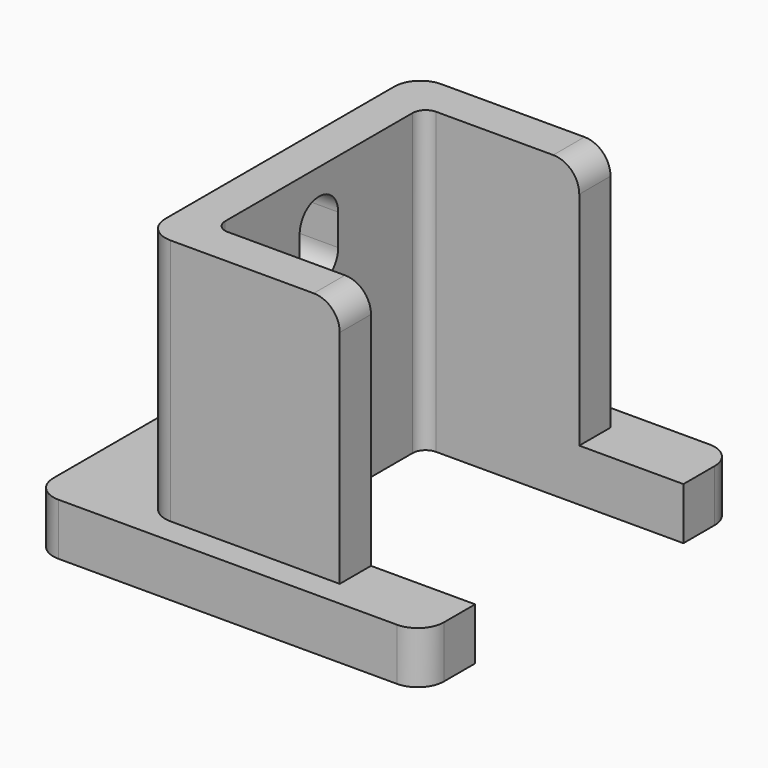
from build123d import *

# Parameters (mm, degrees)
BOX003_W     = 50
BOX003_H     = 3.7
BOX003_DEPTH = 6
FILLET003_R  = 1.8
BOX_W        = 50
BOX_H        = 20
BOX_DEPTH    = 50
FILLET_R     = 1
BOX002_W     = 30
BOX002_H     = 30
BOX002_DEPTH = 4
FILLET002_R  = 2
BOX001_W     = 15
BOX001_H     = 26
BOX001_DEPTH = 23
FILLET001_R  = 2


with BuildPart() as fillet003:
    # Box003 → Box003 (new body)
    with BuildSketch(Plane(origin=(-20, -1.85, 15), x_dir=(1, 0, 0), z_dir=(0, 0, 1))):
        with Locations((25, 1.85)):
            Rectangle(BOX003_W, BOX003_H)
    extrude(amount=BOX003_DEPTH)

    # Fillet003
    fillet003_edges = [fillet003.edges().sort_by_distance(p)[0] for p in [
        (5, -1.85, 15),
        (5, -1.85, 21),
        (5, 1.85, 15),
        (5, 1.85, 21),
    ]]
    fillet(fillet003_edges, radius=FILLET003_R)


with BuildPart() as fusion001:
    # Box → Box (new body)
    with BuildSketch(Plane(origin=(0, -10, 0), x_dir=(1, 0, 0), z_dir=(0, 0, 1))):
        with Locations((25, 10)):
            Rectangle(BOX_W, BOX_H)
    extrude(amount=BOX_DEPTH)

    # Fillet
    fillet_edges = [fusion001.edges().sort_by_distance(p)[0] for p in [
        (0, -10, 25),
        (0, 10, 25),
    ]]
    fillet(fillet_edges, radius=FILLET_R)

    # Fusion001: union Fillet003
    add(fillet003.part)


with BuildPart() as fillet002:
    # Box002 → Box002 (new body)
    with BuildSketch(Plane(origin=(-10, -15, 0), x_dir=(1, 0, 0), z_dir=(0, 0, 1))):
        with Locations((15, 15)):
            Rectangle(BOX002_W, BOX002_H)
    extrude(amount=BOX002_DEPTH)

    # Fillet002
    fillet002_edges = [fillet002.edges().sort_by_distance(p)[0] for p in [
        (-10, -15, 2),
        (-10, 15, 2),
        (20, -15, 2),
        (20, 15, 2),
    ]]
    fillet(fillet002_edges, radius=FILLET002_R)


with BuildPart() as flood_sensor:
    # Box001 → Box001 (new body)
    with BuildSketch(Plane(origin=(-3, -13, 0), x_dir=(1, 0, 0), z_dir=(0, 0, 1))):
        with Locations((7.5, 13)):
            Rectangle(BOX001_W, BOX001_H)
    extrude(amount=BOX001_DEPTH)

    # Fillet001
    fillet001_edges = [flood_sensor.edges().sort_by_distance(p)[0] for p in [
        (-3, -13, 11.5),
        (-3, 13, 11.5),
        (12, 0, 23),
    ]]
    fillet(fillet001_edges, radius=FILLET001_R)

    # Fusion: union Fillet002
    add(fillet002.part)

    # Cut: cut Fusion001
    add(fusion001.part, mode=Mode.SUBTRACT)


solid = flood_sensor.part
